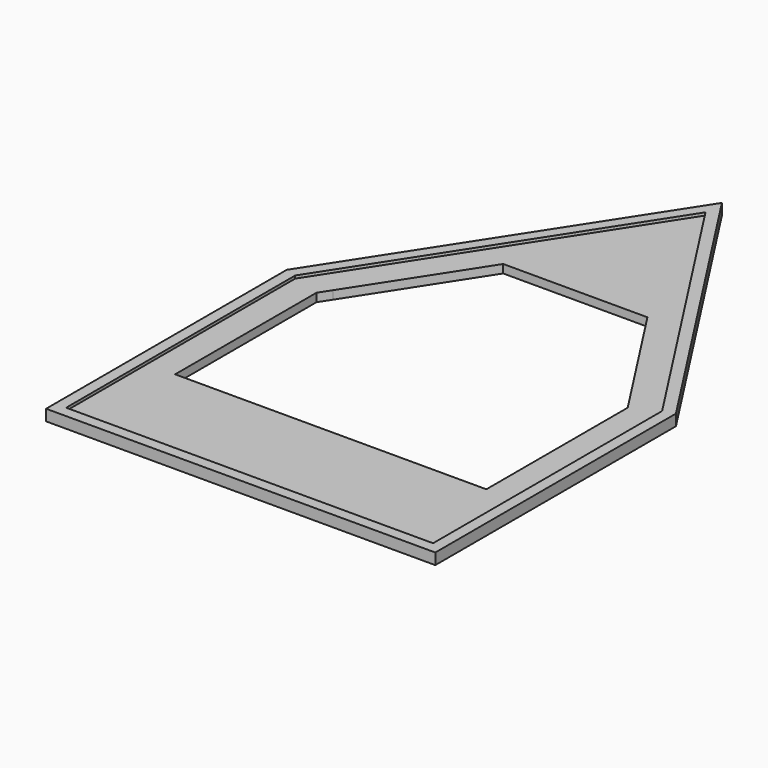
from build123d import *

# Parameters (mm, degrees)
F0_W     = 111.7000012129
F0_H     = 26.4022397026
F1_DEPTH = 3
F2_DEPTH = 4


with BuildPart() as f1:
    # F0 (on Top) → F1 (new body)
    with BuildSketch(Plane.XY):
        Polygon((-53.1748010613, 0), (-65.0856580366, 0), (-65.8500006691, -1.1812567956), (-65.8500006691, -103.9500006691), (65.8500006691, -103.9500006691), (65.8500006691, -1.1812567956), (65.0856580366, 0), (53.1748010613, 0), (55.8500006065, -4.1343992971), (55.8500006065, -67.5477609038), (55.8500006065, -93.9500006065), (-55.8500006065, -93.9500006065), (-55.8500006065, -67.5477609038), (-55.8500006065, -4.1343992971), align=None)
        with Locations((0, -80.7488807551)):
            Rectangle(F0_W, F0_H)
        Polygon((0, 82.1792380038), (-25.8823529412, 42.1792380038), (25.8823529412, 42.1792380038), align=None)
        Polygon((0, 100.5869260566), (-65.0856580366, 0), (-53.1748010613, 0), (-25.8823529412, 42.1792380038), (0, 82.1792380038), (25.8823529412, 42.1792380038), (53.1748010613, 0), (65.0856580366, 0), align=None)
    extrude(amount=F1_DEPTH)

    # F0 (on Top) → F2 (join)
    with BuildSketch(Plane.XY):
        Polygon((-69.85, 0), (-69.85, -107.95), (69.85, -107.95), (69.85, 0), (65.0856580366, 0), (65.8500006691, -1.1812567956), (65.8500006691, -103.9500006691), (-65.8500006691, -103.9500006691), (-65.8500006691, -1.1812567956), (-65.0856580366, 0), align=None)
        Polygon((0, 107.95), (-69.85, 0), (-65.0856580366, 0), (0, 100.5869260566), (65.0856580366, 0), (69.85, 0), align=None)
    extrude(amount=F2_DEPTH)


solid = f1.part
